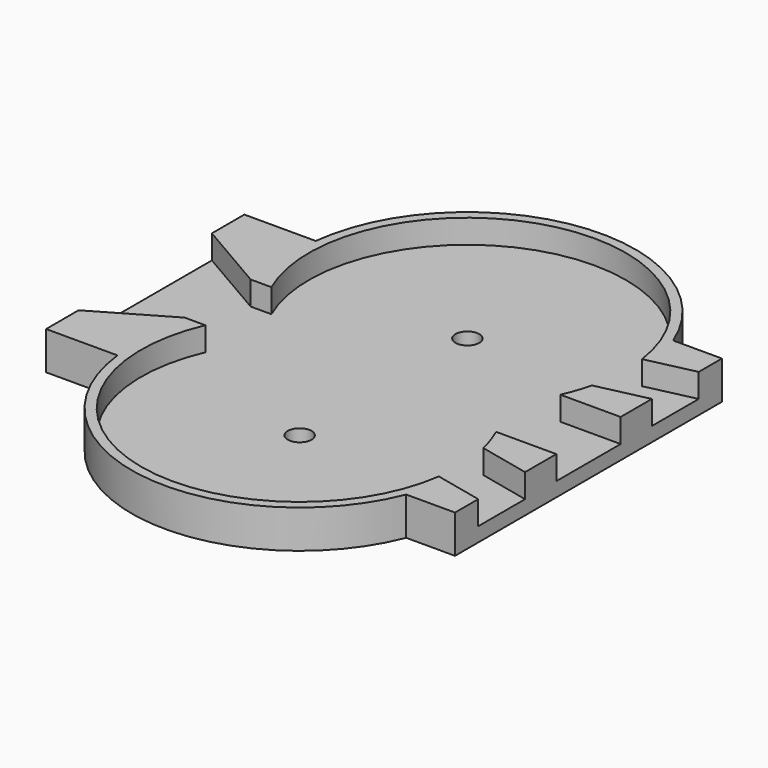
from build123d import *

# Parameters (mm, degrees)
F1_DEPTH = 3
F3_DEPTH = 5
F4_R     = 2.5
F5_DEPTH = 3.001


with BuildPart() as f1:
    # F0 (on Top) → F1 (new body)
    with BuildSketch(Plane.XY):
        with BuildLine():
            Line((43, -35), (43, 35))
            Line((43, 35), (32.765264, 35))
            ThreePointArc((32.765264, 35), (-4.63935, 56.943367), (-35.022314, 26))
            Line((-35.022314, 26), (-50, 26))
            Line((-50, 26), (-50, -26))
            Line((-50, -26), (-35.022314, -26))
            ThreePointArc((-35.022314, -26), (-4.63935, -56.943367), (32.765264, -35))
            Line((32.765264, -35), (43, -35))
        make_face()
    extrude(amount=F1_DEPTH)

    # F2 (on face) → F3 (join)
    with BuildSketch(Plane.XY.offset(3)):
        with BuildLine():
            Line((-34.799137, 8.656902), (-30.455283, 8.656902))
            ThreePointArc((-30.455283, 8.656902), (-9.079543, 53.986316), (32.923604, 26.647449))
            Line((32.923604, 26.647449), (43, 28.911306))
            Line((43, 28.911306), (43, 35))
            Line((43, 35), (32.765264, 35))
            ThreePointArc((32.765264, 35), (-4.63935, 56.943367), (-35.022314, 26))
            Line((-35.022314, 26), (-50, 26))
            Line((-50, 26), (-50, 17.479896))
            Line((-50, 17.479896), (-34.799137, 8.656902))
        make_face()
        with BuildLine():
            Line((43, -28.911306), (32.923604, -26.647449))
            ThreePointArc((32.923604, -26.647449), (-9.079543, -53.986316), (-30.455283, -8.656902))
            Line((-30.455283, -8.656902), (-34.799137, -8.656902))
            Line((-34.799137, -8.656902), (-50, -17.479896))
            Line((-50, -17.479896), (-50, -26))
            Line((-50, -26), (-35.022314, -26))
            ThreePointArc((-35.022314, -26), (-4.63935, -56.943367), (32.765264, -35))
            Line((32.765264, -35), (43, -35))
            Line((43, -35), (43, -28.911306))
        make_face()
        with BuildLine():
            Line((43, 16.62755), (32.329441, 14.230203))
            ThreePointArc((32.329441, 14.230203), (31.476652, 11.286323), (30.356414, 8.433473))
            Line((30.356414, 8.433473), (43, 8.433473))
            Line((43, 8.433473), (43, 16.62755))
        make_face()
        with BuildLine():
            Line((43, -8.433473), (30.356414, -8.433473))
            ThreePointArc((30.356414, -8.433473), (31.476652, -11.286323), (32.329441, -14.230203))
            Line((32.329441, -14.230203), (43, -16.62755))
            Line((43, -16.62755), (43, -8.433473))
        make_face()
    extrude(amount=F3_DEPTH)

    # F4 (on face) → F5 (cut, through all)
    with BuildSketch(Plane.XY.offset(3)):
        with Locations((0, 22)):
            Circle(F4_R)
        with Locations((0, -22)):
            Circle(F4_R)
    extrude(amount=-F5_DEPTH, mode=Mode.SUBTRACT)


solid = f1.part
